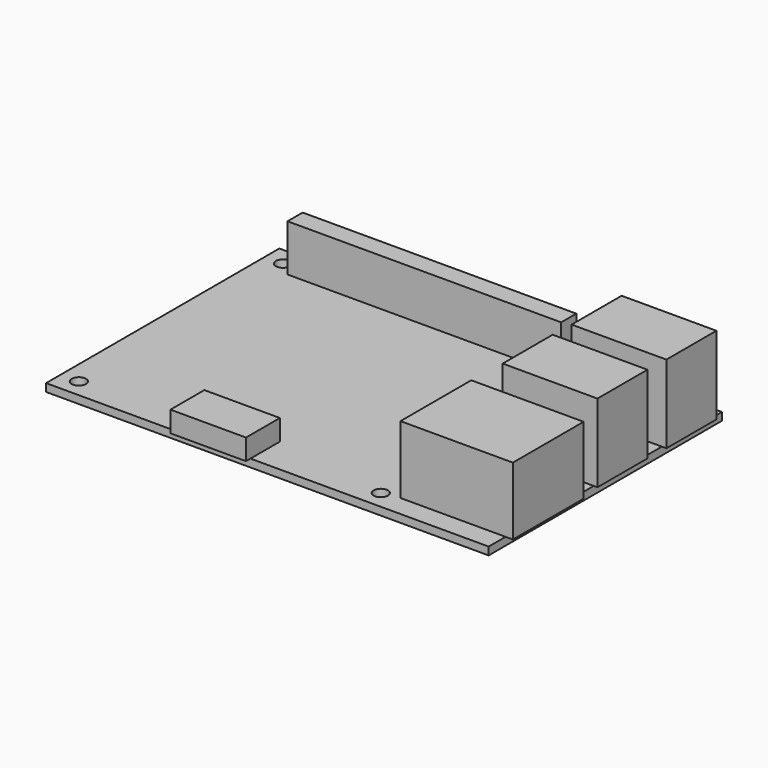
from build123d import *

# Parameters (mm, degrees)
F0_W     = 85
F0_H     = 56
F0_R     = 1.375
F1_DEPTH = 1.5
F2_W     = 14.5066131875
F2_H     = 7.0550842881
F2_H_2   = 1.0795340971
F3_DEPTH = 4
F2_W_2   = 52.5494457505
F2_H_3   = 3.6331438509
F4_DEPTH = 9
F2_W_3   = 0.706913475
F2_H_4   = 12.0032178172
F2_W_4   = 17.4915134945
F2_W_5   = 0.87367237
F2_W_6   = 17.3247545996
F5_DEPTH = 15
F2_W_7   = 20.1837714718
F2_H_5   = 16.9899400229
F2_W_8   = 1.3980423616
F6_DEPTH = 13


with BuildPart() as f1:
    # F0 (on Top) → F1 (new body)
    with BuildSketch(Plane.XY):
        Rectangle(F0_W, F0_H)
        with Locations((-39, -24.5)):
            Circle(F0_R, mode=Mode.SUBTRACT)
        with Locations((19, -24.5)):
            Circle(F0_R, mode=Mode.SUBTRACT)
        with Locations((-39, 24.5)):
            Circle(F0_R, mode=Mode.SUBTRACT)
        with Locations((19, 24.5)):
            Circle(F0_R, mode=Mode.SUBTRACT)
    extrude(amount=F1_DEPTH)

    # F2 (on face) → F3 (join)
    with BuildSketch(Plane.XY.offset(1.5)):
        with Locations((-10.5, -24.4724578559)):
            Rectangle(F2_W, F2_H)
        with Locations((-10.5, -28.5397670486)):
            Rectangle(F2_W, F2_H_2)
    extrude(amount=F3_DEPTH)

    # F2 (on face) → F4 (join)
    with BuildSketch(Plane.XY.offset(1.5)):
        with Locations((-9.9811840151, 23.979865989)):
            Rectangle(F2_W_2, F2_H_3)
    extrude(amount=F4_DEPTH)

    # F2 (on face) → F5 (join)
    with BuildSketch(Plane.XY.offset(1.5)):
        with Locations((42.8534567375, 3.2353831921)):
            Rectangle(F2_W_3, F2_H_4)
        with Locations((33.7542432528, 3.2353831921)):
            Rectangle(F2_W_4, F2_H_4)
        with Locations((42.936836185, 19.5779297501)):
            Rectangle(F2_W_5, F2_H_4)
        with Locations((33.8376227002, 19.5779297501)):
            Rectangle(F2_W_6, F2_H_4)
    extrude(amount=F5_DEPTH)

    # F2 (on face) → F6 (join)
    with BuildSketch(Plane.XY.offset(1.5)):
        with Locations((32.4081142641, -15.4418135062)):
            Rectangle(F2_W_7, F2_H_5)
        with Locations((43.1990211808, -15.4418135062)):
            Rectangle(F2_W_8, F2_H_5)
    extrude(amount=F6_DEPTH)


solid = f1.part
